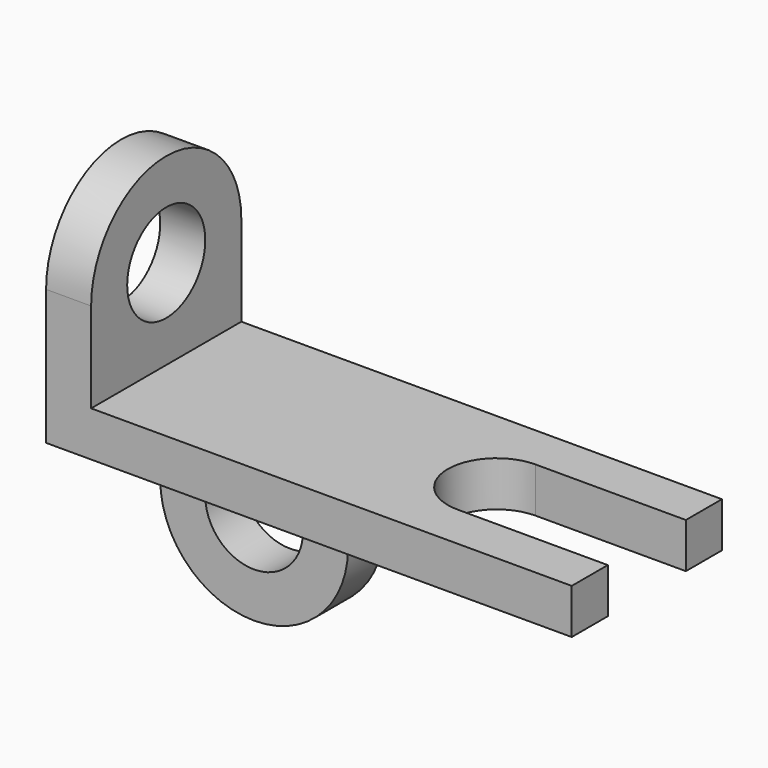
from build123d import *

# Parameters (mm, degrees)
F1_DEPTH = 152.4
F2_R     = 165.1
F3_DEPTH = 152.4
F4_R     = 165.1
F5_DEPTH = 152.4


with BuildPart() as f1:
    # F0 (on Top) → F1 (new body)
    with BuildSketch(Plane.XY):
        with BuildLine():
            Line((0, 317.5), (0, -317.5))
            Line((0, -317.5), (1778, -317.5))
            Line((1778, -317.5), (1778, -165.1))
            Line((1778, -165.1), (1270, -165.1))
            ThreePointArc((1270, -165.1), (1104.9, 0), (1270, 165.1))
            Line((1270, 165.1), (1778, 165.1))
            Line((1778, 165.1), (1778, 317.5))
            Line((1778, 317.5), (0, 317.5))
        make_face()
    extrude(amount=F1_DEPTH)

    # F2 (on face) → F3 (join)
    with BuildSketch(Plane(origin=(0, 0, 0), x_dir=(0, -1, 0), z_dir=(-1, 0, 0))):
        with BuildLine():
            Line((-317.5, 457.2), (-317.5, 152.4))
            Line((-317.5, 152.4), (317.5, 152.4))
            Line((317.5, 152.4), (317.5, 457.2))
            ThreePointArc((317.5, 457.2), (0, 774.7), (-317.5, 457.2))
        make_face()
        with Locations((0, 457.2)):
            Circle(F2_R, mode=Mode.SUBTRACT)
    extrude(amount=-F3_DEPTH)

    # F4 (on face) → F5 (join)
    with BuildSketch(Plane(origin=(0, 317.5, 0), x_dir=(-1, 0, 0), z_dir=(0, 1, 0))):
        with BuildLine():
            Line((0, -304.8), (0, 0))
            Line((0, 0), (-635, 0))
            Line((-635, 0), (-635, -304.8))
            ThreePointArc((-635, -304.8), (-317.5, -622.3), (0, -304.8))
        make_face()
        with Locations((-317.5, -304.8)):
            Circle(F4_R, mode=Mode.SUBTRACT)
    extrude(amount=-F5_DEPTH)


solid = f1.part
